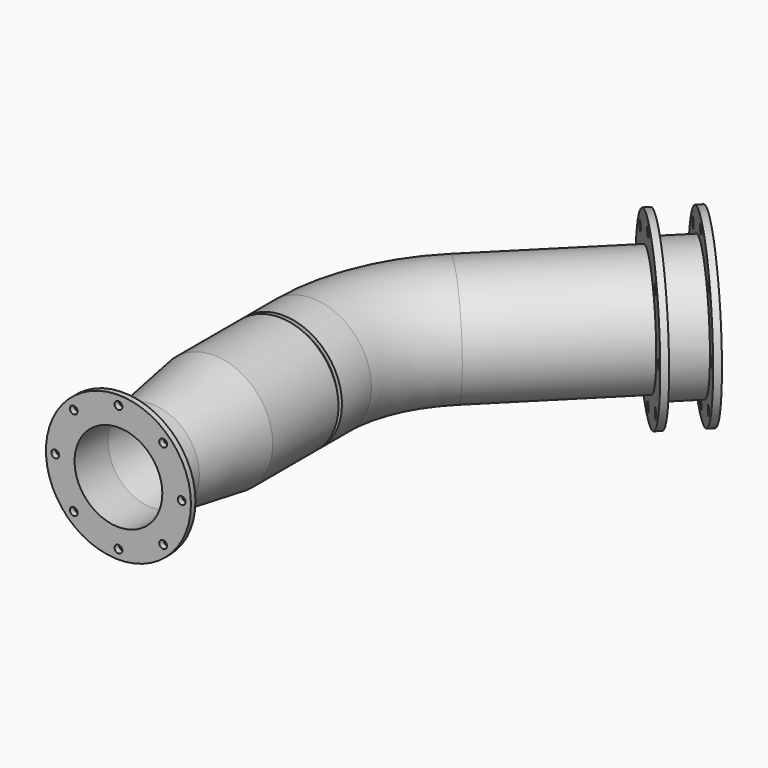
from build123d import *

# Parameters (mm, degrees)
F0_R          = 136.5
F0_R_2        = 127.23
F2_ANGLE      = 45
F3_R          = 136.5
F3_R_2        = 127.23
F4_DEPTH      = 85
F6_START      = 10
F5_R          = 136.5
F5_R_2        = 127.23
F6_DEPTH      = 190
F8_R          = 109.55
F8_R_2        = 101.37
F9_DEPTH      = 178
F9_TAPER      = -8.60945
F9_DEPTH_BACK = 84
F10_R         = 136.5
F10_R_2       = 127.23
F11_DEPTH     = 352
F12_R         = 202.5
F12_R_2       = 11
F12_R_3       = 127.23
F13_DEPTH     = 16
F14_R         = 150
F14_R_2       = 127.23
F15_DEPTH     = 80
F16_R         = 202.5
F16_R_2       = 11
F16_R_3       = 127.23
F17_DEPTH     = 16
F18_R         = 167.5
F18_R_2       = 9
F18_R_3       = 101.37
F19_DEPTH     = 13


with BuildPart() as f2:
    # F0 (on Front) → F2 (revolve)
    with BuildSketch(Plane.XZ):
        with Locations((-381, 0)):
            Circle(F0_R)
        with Locations((-381, 0)):
            Circle(F0_R_2, mode=Mode.SUBTRACT)
    revolve(axis=Axis((0, 0, -33.9096337557), (0, 0, -1)), revolution_arc=F2_ANGLE)

    # F3 (on face) → F4 (join)
    with BuildSketch(Plane.XZ):
        with Locations((-381, 0)):
            Circle(F3_R)
        with Locations((-381, 0)):
            Circle(F3_R_2, mode=Mode.SUBTRACT)
    extrude(amount=F4_DEPTH)

    # F10 (on face) → F11 (join)
    with BuildSketch(Plane(origin=(0, 0, 0), x_dir=(-0.7071067812, 0.7071067812, 0), z_dir=(0.7071067812, 0.7071067812, 0))):
        with Locations((381, 0)):
            Circle(F10_R)
        with Locations((381, 0)):
            Circle(F10_R_2, mode=Mode.SUBTRACT)
    extrude(amount=F11_DEPTH)

    # F12 (on face) → F13 (join)
    with BuildSketch(Plane(origin=(248.9015869777, 248.9015869777, 0), x_dir=(-0.7071067812, 0.7071067812, 0), z_dir=(0.7071067812, 0.7071067812, 0))):
        with Locations((381, 0)):
            Circle(F12_R)
        with Locations((255.1349929488, -125.8650070512)):
            Circle(F12_R_2, mode=Mode.SUBTRACT)
        with Locations((381, -178)):
            Circle(F12_R_2, mode=Mode.SUBTRACT)
        with Locations((506.8650070512, -125.8650070512)):
            Circle(F12_R_2, mode=Mode.SUBTRACT)
        with Locations((203, 0)):
            Circle(F12_R_2, mode=Mode.SUBTRACT)
        with Locations((255.1349929488, 125.8650070512)):
            Circle(F12_R_2, mode=Mode.SUBTRACT)
        with Locations((381, 0)):
            Circle(F12_R_3, mode=Mode.SUBTRACT)
        with Locations((559, 0)):
            Circle(F12_R_2, mode=Mode.SUBTRACT)
        with Locations((381, 178)):
            Circle(F12_R_2, mode=Mode.SUBTRACT)
        with Locations((506.8650070512, 125.8650070512)):
            Circle(F12_R_2, mode=Mode.SUBTRACT)
    extrude(amount=F13_DEPTH)


with BuildPart() as f6:
    # F5 (on face) → F6 (new body)
    with BuildSketch(Plane.XZ.offset(85).offset(F6_START)):
        with Locations((-381, 0)):
            Circle(F5_R)
        with Locations((-381, 0)):
            Circle(F5_R_2, mode=Mode.SUBTRACT)
    extrude(amount=F6_DEPTH)



with BuildPart() as f9:
    # F8 (on offset) → F9 (new body, two sides)
    with BuildSketch(Plane.XZ.offset(463)) as f9_sk:
        with Locations((-381, 0)):
            Circle(F8_R)
        with Locations((-381, 0)):
            Circle(F8_R_2, mode=Mode.SUBTRACT)
    extrude(amount=-F9_DEPTH, taper=F9_TAPER)
    extrude(f9_sk.sketch, amount=F9_DEPTH_BACK)


with BuildPart() as f15:
    # F14 (on face) → F15 (new body)
    with BuildSketch(Plane(origin=(260.2152954766, 260.2152954766, 0), x_dir=(-0.7071067812, 0.7071067812, 0), z_dir=(0.7071067812, 0.7071067812, 0))):
        with Locations((381, 0)):
            Circle(F14_R)
        with Locations((381, 0)):
            Circle(F14_R_2, mode=Mode.SUBTRACT)
    extrude(amount=F15_DEPTH)


with BuildPart() as f17:
    # F16 (on face) → F17 (new body)
    with BuildSketch(Plane(origin=(316.7838379716, 316.7838379716, 0), x_dir=(-0.7071067812, 0.7071067812, 0), z_dir=(0.7071067812, 0.7071067812, 0))):
        with Locations((381, 0)):
            Circle(F16_R)
        with Locations((255.1349929488, -125.8650070512)):
            Circle(F16_R_2, mode=Mode.SUBTRACT)
        with Locations((381, -178)):
            Circle(F16_R_2, mode=Mode.SUBTRACT)
        with Locations((506.8650070512, -125.8650070512)):
            Circle(F16_R_2, mode=Mode.SUBTRACT)
        with Locations((203, 0)):
            Circle(F16_R_2, mode=Mode.SUBTRACT)
        with Locations((255.1349929488, 125.8650070512)):
            Circle(F16_R_2, mode=Mode.SUBTRACT)
        with Locations((381, 0)):
            Circle(F16_R_3, mode=Mode.SUBTRACT)
        with Locations((559, 0)):
            Circle(F16_R_2, mode=Mode.SUBTRACT)
        with Locations((381, 178)):
            Circle(F16_R_2, mode=Mode.SUBTRACT)
        with Locations((506.8650070512, 125.8650070512)):
            Circle(F16_R_2, mode=Mode.SUBTRACT)
    extrude(amount=F17_DEPTH)


with BuildPart() as f6_1:
    add(f6.part)

    add(f9.part)  # F19 merges F9
    # F18 (on face) → F19 (join)
    with BuildSketch(Plane.XZ.offset(547)):
        with Locations((-381, 0)):
            Circle(F18_R)
        with Locations((-484.2375900532, -103.2375900532)):
            Circle(F18_R_2, mode=Mode.SUBTRACT)
        with Locations((-381, -146)):
            Circle(F18_R_2, mode=Mode.SUBTRACT)
        with Locations((-277.7624099468, -103.2375900532)):
            Circle(F18_R_2, mode=Mode.SUBTRACT)
        with Locations((-527, 0)):
            Circle(F18_R_2, mode=Mode.SUBTRACT)
        with Locations((-484.2375900532, 103.2375900532)):
            Circle(F18_R_2, mode=Mode.SUBTRACT)
        with Locations((-381, 0)):
            Circle(F18_R_3, mode=Mode.SUBTRACT)
        with Locations((-235, 0)):
            Circle(F18_R_2, mode=Mode.SUBTRACT)
        with Locations((-381, 146)):
            Circle(F18_R_2, mode=Mode.SUBTRACT)
        with Locations((-277.7624099468, 103.2375900532)):
            Circle(F18_R_2, mode=Mode.SUBTRACT)
    extrude(amount=F19_DEPTH)


solid = Compound([f2.part, f15.part, f17.part, f6_1.part])
